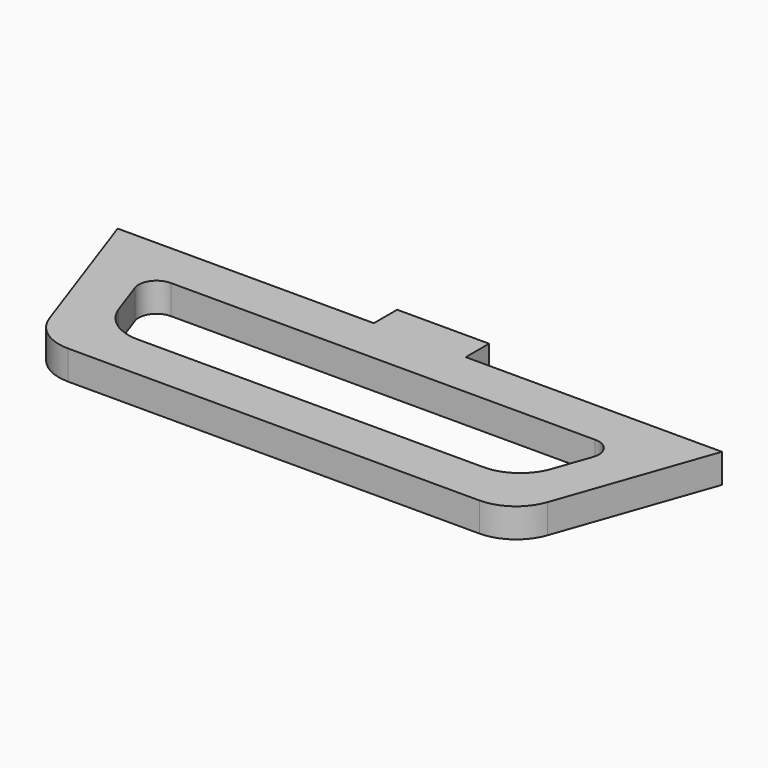
from build123d import *

# Parameters (mm, degrees)
F1_DEPTH = 3.175


with BuildPart() as f1:
    # F0 (on Top) → F1 (new body)
    with BuildSketch(Plane.XY):
        with BuildLine():
            Line((-7.220087, -9.359666), (-35.094466, -9.359666))
            Line((-35.094466, -9.359666), (-29.309166, -25.879119))
            ThreePointArc((-29.309166, -25.879119), (-27.483004, -28.304664), (-24.590185, -29.226478))
            Line((-24.590185, -29.226478), (20.150011, -29.226478))
            ThreePointArc((20.150011, -29.226478), (23.04283, -28.304664), (24.868992, -25.879119))
            Line((24.868992, -25.879119), (30.654292, -9.359666))
            Line((30.654292, -9.359666), (2.779913, -9.359666))
            Line((2.779913, -9.359666), (2.779913, -6.184666))
            Line((2.779913, -6.184666), (-2.220087, -6.184666))
            Line((-2.220087, -6.184666), (-7.220087, -6.184666))
            Line((-7.220087, -6.184666), (-7.220087, -9.359666))
        make_face()
        with BuildLine():
            Line((-7.220087, -14.359667), (2.779913, -14.359667))
            Line((2.779913, -14.359667), (20.870817, -14.359667))
            ThreePointArc((20.870817, -14.359667), (22.452994, -15.177171), (22.701597, -16.940632))
            Line((22.701597, -16.940632), (21.322294, -20.879118))
            ThreePointArc((21.322294, -20.879118), (19.496132, -23.304663), (16.603314, -24.226477))
            Line((16.603314, -24.226477), (-21.043488, -24.226477))
            ThreePointArc((-21.043488, -24.226477), (-23.936306, -23.304663), (-25.762468, -20.879118))
            Line((-25.762468, -20.879118), (-27.141771, -16.940632))
            ThreePointArc((-27.141771, -16.940632), (-26.893168, -15.177171), (-25.310991, -14.359667))
            Line((-25.310991, -14.359667), (-7.220087, -14.359667))
        make_face(mode=Mode.SUBTRACT)
    extrude(amount=F1_DEPTH)


solid = f1.part
